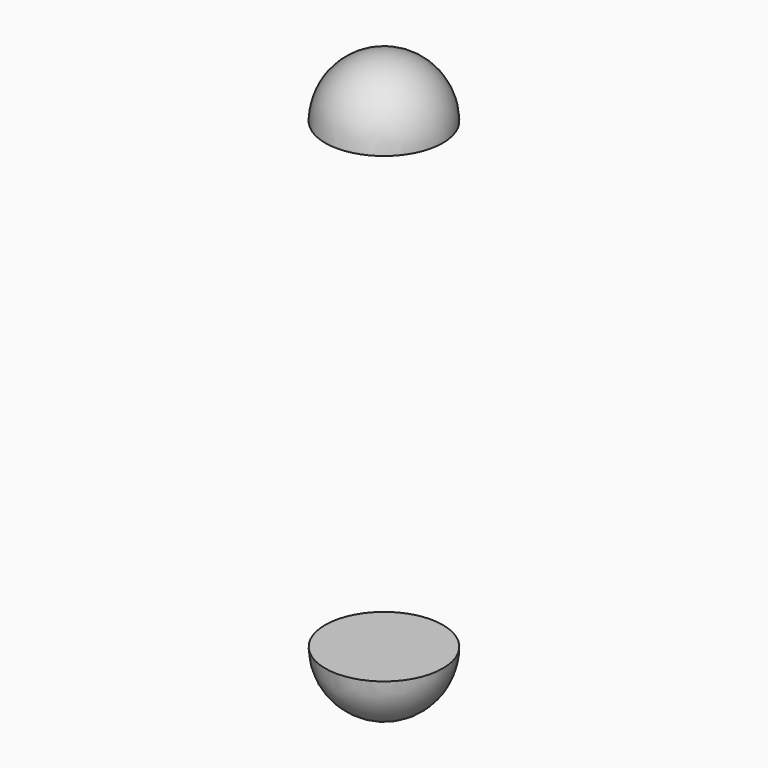
from build123d import *

# Parameters (mm, degrees)
F1_ANGLE_BACK = 90
F1_ANGLE      = 180


with BuildPart() as f1:
    # F0 (on Front) → F1 (revolve)
    with BuildSketch(Plane.XZ, mode=Mode.PRIVATE) as f1_sk:
        with BuildLine():
            Line((-20, 0), (20, 0))
            ThreePointArc((20, 0), (0, 20), (-20, 0))
        make_face()
    revolve(f1_sk.sketch.rotate(Axis((0, 0, 0), (1, 0, 0)), -F1_ANGLE_BACK), axis=Axis((0, 0, 0), (1, 0, 0)), revolution_arc=F1_ANGLE)


with BuildPart() as f1_1:
    # F2: moved
    add(f1.part.moved(Location((0, 0, 78.6))))


with BuildPart() as f3_1:
    # F3: instance of F1
    add(f1_1.part.mirror(Plane.XY))


solid = Compound([f1_1.part, f3_1.part])
